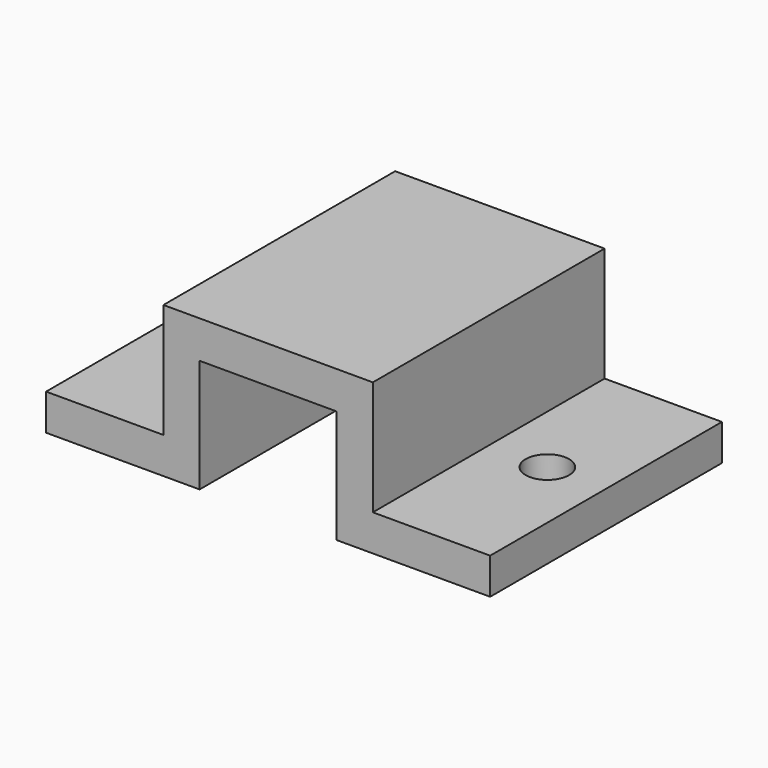
from build123d import *

# Parameters (mm, degrees)
F1_DEPTH = 25.4
F2_R     = 1.905
F3_DEPTH = 25.4


with BuildPart() as f1:
    # F0 (on Front) → F1 (new body)
    with BuildSketch(Plane.XZ):
        Polygon((-6.0071, 0), (0, 0), (6.0071, 0), (6.0071, -9.9314), (19.4691, -9.9314), (19.4691, -6.7564), (9.1821, -6.7564), (9.1821, 3.2766), (0, 3.2766), (-9.1821, 3.2766), (-9.1821, -6.7564), (-19.4691, -6.7564), (-19.4691, -9.9314), (-6.0071, -9.9314), align=None)
    extrude(amount=F1_DEPTH)

    # F2 (on face) → F3 (cut)
    with BuildSketch(Plane.XY.offset(-6.7564)):
        with Locations((-14.3256, -12.7)):
            Circle(F2_R)
        with Locations((14.3256, -12.7)):
            Circle(F2_R)
    extrude(amount=-F3_DEPTH, mode=Mode.SUBTRACT)


solid = f1.part
